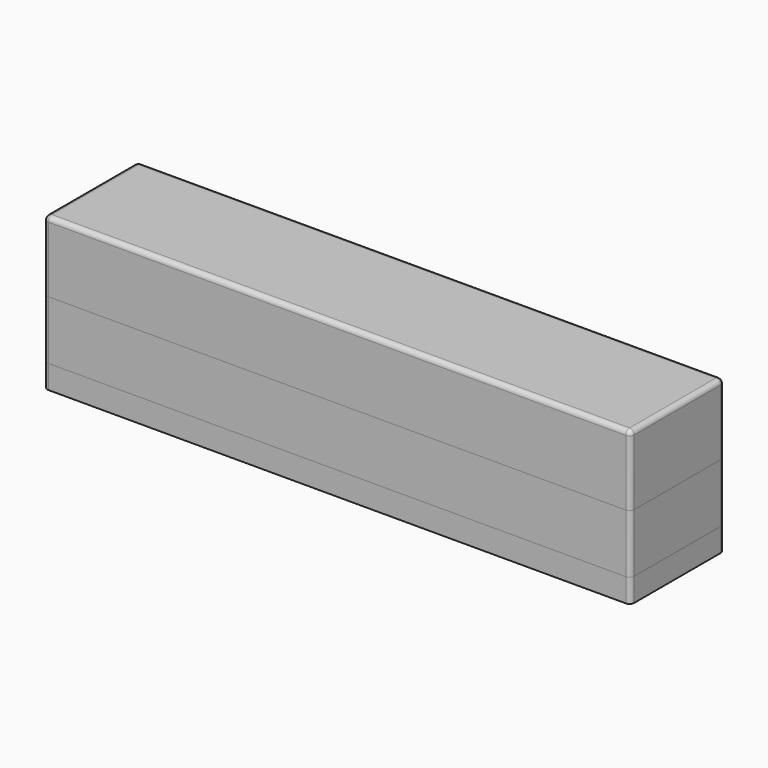
from build123d import *

# Parameters (mm, degrees)
F0_W     = 250
F0_H     = 50
F1_DEPTH = 10
F3_DEPTH = 25
F5_D     = 8.8
F5_DEPTH = 10
F5_TIP   = 2.6437867237
F4_W     = 250
F4_H     = 50
F6_DEPTH = 30
F7_R     = 2
F7_2_R   = 2
F7_3_R   = 2


with BuildPart() as f1:
    # F0 (on Top) → F1 (new body)
    with BuildSketch(Plane.XY):
        Rectangle(F0_W, F0_H)
    extrude(amount=F1_DEPTH)

    # F5
    with Locations(Plane(origin=(0, 0, 0), x_dir=(1, 0, 0), z_dir=(0, 0, -1))):
        with Locations((-60, 0), (60, 0)):
            Hole(F5_D / 2, depth=F5_DEPTH)
            with Locations((0, 0, -(F5_DEPTH + F5_TIP / 2))):  # 118° drill point
                Cone(0, F5_D / 2, F5_TIP, mode=Mode.SUBTRACT)

    # F7
    f7_edges = [f1.edges().sort_by_distance(p)[0] for p in [
        (-125, -25, 5),
        (-125, 25, 5),
        (125, 25, 5),
        (125, -25, 5),
    ]]
    fillet(f7_edges, radius=F7_R)


with BuildPart() as f3:
    # F2 (on face) → F3 (new body)
    with BuildSketch(Plane.XY.offset(10)):
        Polygon((125, 25), (-125, 25), (-125, -25), (-119.9850216508, -25), (125, -25), align=None)
    extrude(amount=F3_DEPTH)

    # F7#2
    f7_2_edges = [f3.edges().sort_by_distance(p)[0] for p in [
        (-125, -25, 22.5),
        (-125, 25, 22.5),
        (125, -25, 22.5),
        (125, 25, 22.5),
    ]]
    fillet(f7_2_edges, radius=F7_2_R)


with BuildPart() as f6:
    # F4 (on face) → F6 (new body)
    with BuildSketch(Plane.XY.offset(35)):
        Rectangle(F4_W, F4_H)
    extrude(amount=F6_DEPTH)

    # F7#3
    f7_3_edges = [f6.edges().sort_by_distance(p)[0] for p in [
        (-125, -25, 50),
        (-125, 25, 50),
        (125, -25, 50),
        (125, 25, 50),
        (0, 25, 65),
        (125, 0, 65),
        (0, -25, 65),
        (-125, 0, 65),
    ]]
    fillet(f7_3_edges, radius=F7_3_R)


solid = Compound([f1.part, f3.part, f6.part])
